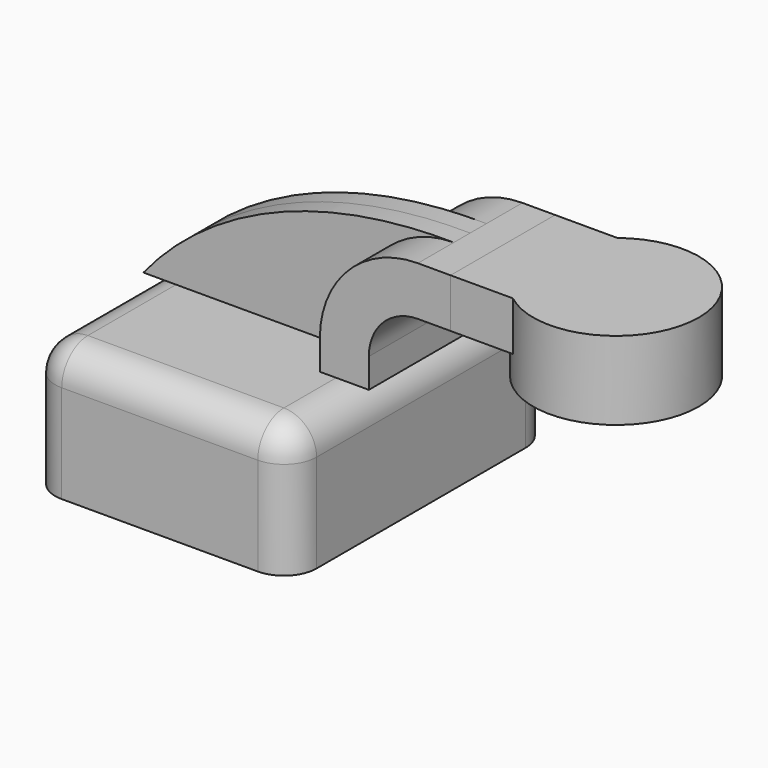
from build123d import *

# Parameters (mm, degrees)
F0_W     = 44.0032443145
F0_H     = 19.05
F1_DEPTH = 25.4
F2_DEPTH = 63.5
F3_DEPTH = 7.9375
F5_DEPTH = 25.4
F6_R     = 12.7
F7_R     = 12.7


with BuildPart() as f1:
    # F0 (on Front) → F1 (new body, symmetric)
    with BuildSketch(Plane.XZ):
        with Locations((104.5516221572, 65.405)):
            Rectangle(F0_W, F0_H)
    extrude(amount=F1_DEPTH, both=True)

    # F0 (on Front) → F4 (revolve)
    with BuildSketch(Plane.XZ):
        Polygon((158.75, 74.93), (126.5532443145, 74.93), (126.5532443145, 55.88), (126.5532443145, 44.45), (158.75, 44.45), align=None)
    revolve(axis=Axis((126.5532443145, 0, 59.69), (0, 0, -1)))


with BuildPart() as f2:
    # F0 (on Front) → F2 (new body, symmetric)
    with BuildSketch(Plane.XZ):
        Polygon((31.75, 25.4), (-50.8, 25.4), (-50.8, -25.4), (50.8, -25.4), (50.8, 25.4), align=None)
    extrude(amount=F2_DEPTH, both=True)

    # F6
    f6_edges = [f2.edges().sort_by_distance(p)[0] for p in [
        (50.8, -63.5, 0),
        (-50.8, -63.5, 0),
        (-50.8, 63.5, 0),
        (50.8, 63.5, 0),
    ]]
    fillet(f6_edges, radius=F6_R)

    # F7
    f7_edges = [f2.edges().sort_by_distance(p)[0] for p in [
        (0, 63.5, 25.4),
        (-50.8, 0, 25.4),
        (0, -63.5, 25.4),
        (50.8, 0, 25.4),
    ]]
    fillet(f7_edges, radius=F7_R)


with BuildPart() as f3:
    # F0 (on Front) → F3 (new body, symmetric)
    with BuildSketch(Plane.XZ):
        with BuildLine():
            add(Edge.make_bspline(
                [(-50.8, 25.4), (-26.2902118266, 55.7845644653), (15.7740116119, 75.6253525615), (69.85, 74.93)],
                knots=[0, 0, 0, 0, 130.421023612, 130.421023612, 130.421023612, 130.421023612], degree=3))
            Line((-50.8, 25.4), (31.75, 25.4))
            Line((31.75, 25.4), (31.75, 36.83))
            ThreePointArc((31.75, 36.83), (42.9092316368, 63.7707683632), (69.85, 74.93))
        make_face()
    extrude(amount=F3_DEPTH, both=True)


with BuildPart() as f5:
    # F0 (on Front) → F5 (new body, symmetric)
    with BuildSketch(Plane.XZ):
        with BuildLine():
            Line((31.75, 36.83), (31.75, 25.4))
            Line((31.75, 25.4), (50.8, 25.4))
            Line((50.8, 25.4), (50.8, 36.83))
            ThreePointArc((50.8, 36.83), (56.3796158184, 50.3003841816), (69.85, 55.88))
            Line((69.85, 55.88), (82.55, 55.88))
            Line((82.55, 55.88), (82.55, 74.93))
            Line((82.55, 74.93), (69.85, 74.93))
            ThreePointArc((69.85, 74.93), (42.9092316368, 63.7707683632), (31.75, 36.83))
        make_face()
    extrude(amount=F5_DEPTH, both=True)


solid = Compound([f1.part, f2.part, f3.part, f5.part])
